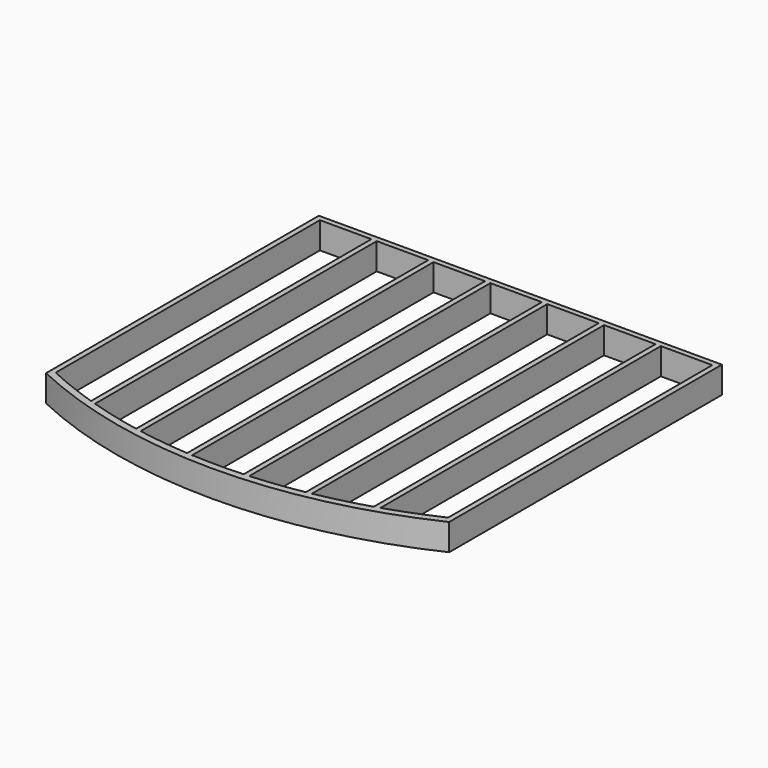
from build123d import *

# Parameters (mm, degrees)
F0_W     = 38.1
F0_H     = 190.5
F1_DEPTH = 2882.9
F2_W     = 38.1
F2_H     = 190.5
F3_DEPTH = 2362.2
F4_W     = 38.1
F4_H     = 190.5
F5_DEPTH = 2362.2
F7_DEPTH = 190.5
F9_W     = 38.1
F9_H     = 190.5


with BuildPart() as f1:
    # F0 (on Right) → F1 (new body)
    with BuildSketch(Plane.YZ):
        with Locations((-19.05, 95.25)):
            Rectangle(F0_W, F0_H)
    extrude(amount=-F1_DEPTH)

    # F2 (on face) → F3 (join)
    with BuildSketch(Plane.XZ.offset(38.1)):
        with Locations((-19.05, 95.25)):
            Rectangle(F2_W, F2_H)
    extrude(amount=F3_DEPTH)

    # F4 (on face) → F5 (join, through all)
    with BuildSketch(Plane.XZ.offset(38.1)):
        with Locations((-2863.85, 95.25)):
            Rectangle(F4_W, F4_H)
    extrude(amount=F5_DEPTH)


with BuildPart() as f7:
    # F6 (on face) → F7 (new body, through all)
    with BuildSketch(Plane.XY.offset(190.5)):
        with BuildLine():
            Line((-2844.8, -2400.3), (-2882.9, -2400.3))
            Line((-2882.9, -2400.3), (-2882.9, -2438.4))
            ThreePointArc((-2882.9, -2438.4), (-1441.45, -2759.6377807507), (0, -2438.4))
            Line((0, -2438.4), (0, -2400.3))
            Line((0, -2400.3), (-38.1, -2400.3))
            ThreePointArc((-38.1, -2400.3), (-1441.45, -2709.0151483658), (-2844.8, -2400.3))
        make_face()
    extrude(amount=-F7_DEPTH)


with BuildPart() as f1_1:
    add(f1.part)

    # F8: union F7
    add(f7.part)

    # F9 (on face) → F10 (join, up to the next surface of F1)
    with BuildSketch(Plane.XZ.offset(38.1)):
        with Locations((-425.45, 95.25)):
            Rectangle(F9_W, F9_H)
        with Locations((-831.85, 95.25)):
            Rectangle(F9_W, F9_H)
        with Locations((-1238.25, 95.25)):
            Rectangle(F9_W, F9_H)
        with Locations((-1644.65, 95.25)):
            Rectangle(F9_W, F9_H)
        with Locations((-2051.05, 95.25)):
            Rectangle(F9_W, F9_H)
        with Locations((-2457.45, 95.25)):
            Rectangle(F9_W, F9_H)
    extrude(until=Until.NEXT)


solid = f1_1.part
